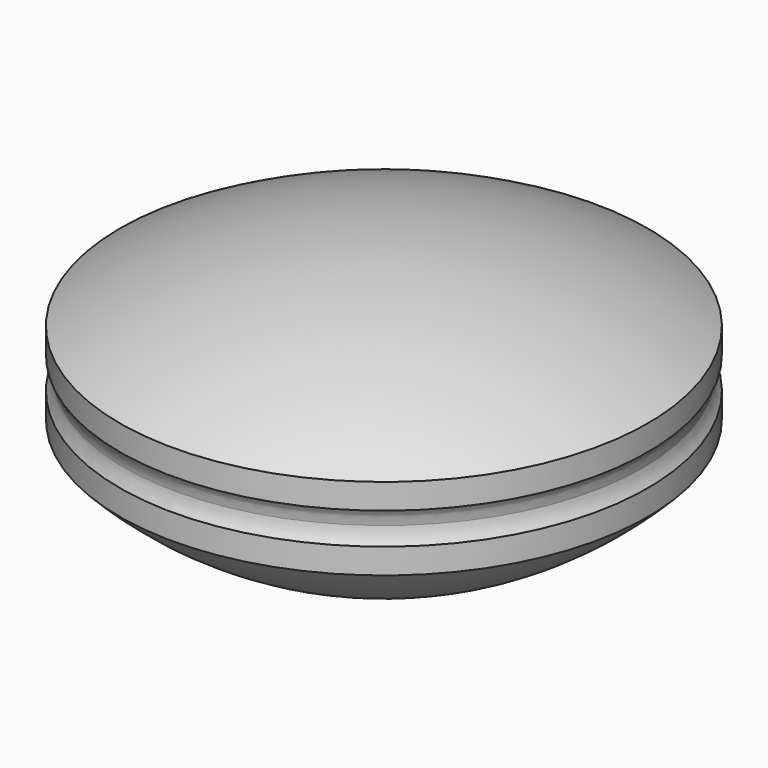
from build123d import *


with BuildPart() as f1:
    # F0 (on Front) → F1 (revolve)
    with BuildSketch(Plane.XZ):
        with BuildLine():
            Line((0, 1.27232), (0, 26.27232))
            ThreePointArc((0, 26.27232), (-12.940952, 24.568612), (-25, 19.573591))
            Line((-25, 19.573591), (-25, 17.175507))
            ThreePointArc((-25, 17.175507), (-24.628292, 16.466076), (-24.5, 15.675507))
            ThreePointArc((-24.5, 15.675507), (-24.628292, 14.884937), (-25, 14.175507))
            Line((-25, 14.175507), (-25, 11.777423))
            ThreePointArc((-25, 11.777423), (-13.558735, 4.005298), (0, 1.27232))
        make_face()
    revolve(axis=Axis((0, 0, 13.77232), (0, 0, -1)))


solid = f1.part
